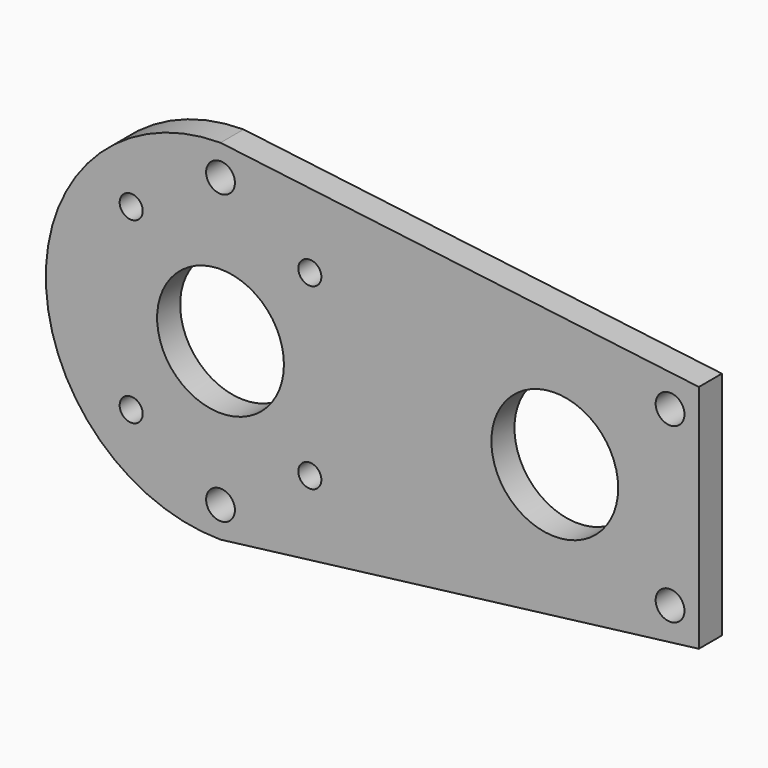
from build123d import *

# Parameters (mm, degrees)
F0_R     = 11
F0_R_2   = 2
F0_R_3   = 2.5
F1_DEPTH = 5


with BuildPart() as f1:
    # F0 (on Front) → F1 (new body)
    with BuildSketch(Plane.XZ):
        with Locations((58, 0)):
            Circle(F0_R)
        with BuildLine():
            ThreePointArc((0, 30.311465), (-30.311465, 0), (0, -30.311465))
            Line((0, -30.311465), (83, -20))
            Line((83, -20), (83, 0))
            Line((83, 0), (83, 20))
            Line((83, 20), (0, 30.311465))
        make_face()
        with Locations((-15.5, -15.5)):
            Circle(F0_R_2, mode=Mode.SUBTRACT)
        with Locations((0, -25)):
            Circle(F0_R_3, mode=Mode.SUBTRACT)
        with Locations((15.5, -15.5)):
            Circle(F0_R_2, mode=Mode.SUBTRACT)
        with Locations((78, -15)):
            Circle(F0_R_3, mode=Mode.SUBTRACT)
        Circle(F0_R, mode=Mode.SUBTRACT)
        with Locations((-15.5, 15.5)):
            Circle(F0_R_2, mode=Mode.SUBTRACT)
        with Locations((15.5, 15.5)):
            Circle(F0_R_2, mode=Mode.SUBTRACT)
        with Locations((0, 25)):
            Circle(F0_R_3, mode=Mode.SUBTRACT)
        with Locations((58, 0)):
            Circle(F0_R, mode=Mode.SUBTRACT)
        with Locations((78, 15)):
            Circle(F0_R_3, mode=Mode.SUBTRACT)
    extrude(amount=F1_DEPTH)


solid = f1.part
